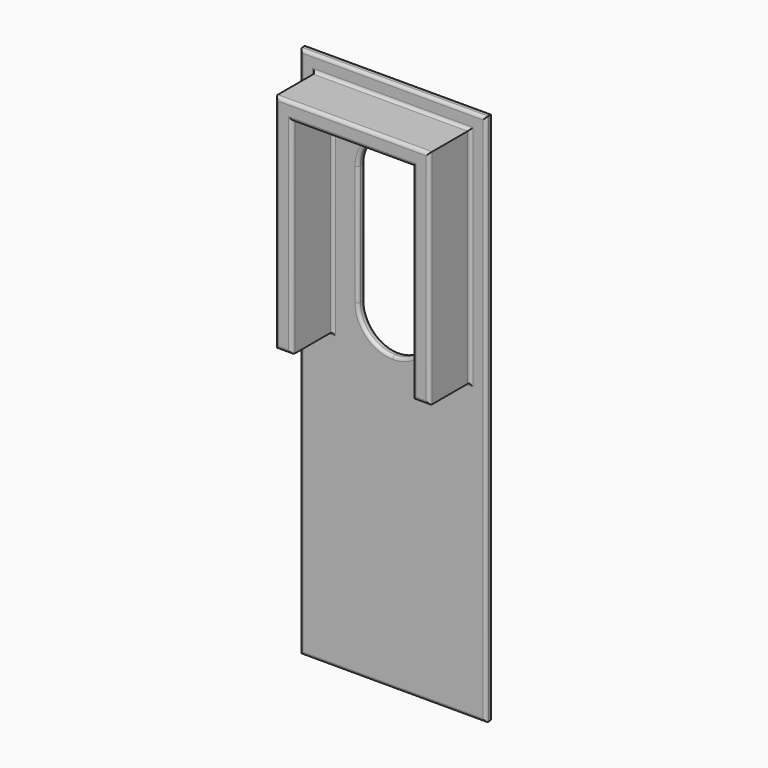
from build123d import *

# Parameters (mm, degrees)
F0_W     = 13.97
F0_H     = 40.005
F1_DEPTH = 3.175
F2_DEPTH = 2.54
F5_DEPTH = 25.4
F6_DEPTH = 3.81
F7_R     = 0.2286
F8_R     = 0.2286
F9_R     = 0.254


with BuildPart() as f1:
    # F0 (on Front) → F1 (new body)
    with BuildSketch(Plane.XZ):
        Rectangle(F0_W, F0_H)
    extrude(amount=F1_DEPTH)

    # F2 (cut): a face of the model
    f2_faces = [f1.faces().sort_by_distance(p)[0] for p in [
        (0, 0, 0),
    ]]
    extrude(f2_faces, amount=-F2_DEPTH, mode=Mode.SUBTRACT)

    # F3 (on face) → F5 (cut)
    with BuildSketch(Plane.XZ.offset(3.175)):
        with BuildLine():
            Line((2.6061468011, 4.583747707), (2.6061468011, 13.593294405))
            ThreePointArc((2.6061468011, 13.593294405), (1.8441656406, 15.4357593505), (0.003389831, 16.201812079))
            ThreePointArc((0.003389831, 16.201812079), (0.001844595, 16.2018134827), (0.0002993585, 16.2018139709))
            Line((0.0002993585, 16.2018139709), (0.0002993585, 1.9778139709))
            ThreePointArc((0.0002993585, 1.9778139709), (0.9737013076, 2.1662350173), (1.8064818654, 2.704278127))
            ThreePointArc((1.8064818654, 2.704278127), (2.3979195865, 3.5624899149), (2.6061468011, 4.583747707))
        make_face()
        with BuildLine():
            Line((0.0002993585, 1.9778139709), (0.0002993585, 16.2018139709))
            ThreePointArc((0.0002993585, 16.2018139709), (-1.8401435929, 15.4418995197), (-2.6082506073, 13.6048606402))
            Line((-2.6082506073, 13.6048606402), (-2.6082570215, 4.5863722062))
            ThreePointArc((-2.6082570215, 4.5863722062), (-1.8442292029, 2.7418431015), (0.0002993585, 1.9778139709))
        make_face()
    extrude(amount=-F5_DEPTH, mode=Mode.SUBTRACT)

    # F4 (on face) → F6 (join)
    with BuildSketch(Plane.XZ.offset(3.175)):
        Polygon((-5.783022847, 2.1209), (-4.513022847, 2.1209), (-4.513022847, 17.5387), (4.5277241152, 17.5387), (4.5277241152, 2.1209), (5.7977241152, 2.1209), (5.7977241152, 18.8087), (-5.783022847, 18.8087), align=None)
    extrude(amount=F6_DEPTH)

    # F7
    f7_edges = [f1.edges().sort_by_distance(p)[0] for p in [
        (6.985, -2.54, 0),
        (0, -2.54, -20.0025),
        (0, -2.54, 20.0025),
        (-6.985, -2.54, 0),
        (2.39792, -2.54, 3.56249),
        (2.606147, -2.54, 9.088521),
        (1.844166, -2.54, 15.435759),
        (0.001845, -2.54, 16.201813),
        (-1.840144, -2.54, 15.4419),
        (-2.608254, -2.54, 9.095616),
        (-1.022696, -2.54, 2.186777),
    ]]
    fillet(f7_edges, radius=F7_R)

    # F8
    f8_edges = [f1.edges().sort_by_distance(p)[0] for p in [
        (6.985, -3.175, 0),
        (0, -3.175, -20.0025),
        (0, -3.175, 20.0025),
        (-6.985, -3.175, 0),
        (2.39792, -3.175, 3.56249),
        (-1.022696, -3.175, 2.186777),
        (2.606147, -3.175, 9.088521),
        (-2.608254, -3.175, 9.095616),
        (1.844166, -3.175, 15.435759),
        (-1.840144, -3.175, 15.4419),
        (0.001845, -3.175, 16.201813),
        (-5.148023, -3.175, 2.1209),
        (-4.513023, -3.175, 9.8298),
        (0.007351, -3.175, 17.5387),
        (4.527724, -3.175, 9.8298),
        (5.162724, -3.175, 2.1209),
        (5.797724, -3.175, 10.4648),
        (0.007351, -3.175, 18.8087),
        (-5.783023, -3.175, 10.4648),
    ]]
    fillet(f8_edges, radius=F8_R)

    # F9
    f9_edges = [f1.edges().sort_by_distance(p)[0] for p in [
        (-5.148023, -6.985, 2.1209),
        (-4.513023, -6.985, 9.8298),
        (0.007351, -6.985, 17.5387),
        (4.527724, -6.985, 9.8298),
        (5.162724, -6.985, 2.1209),
        (5.797724, -6.985, 10.4648),
        (0.007351, -6.985, 18.8087),
        (-5.783023, -6.985, 10.4648),
    ]]
    fillet(f9_edges, radius=F9_R)


solid = f1.part
